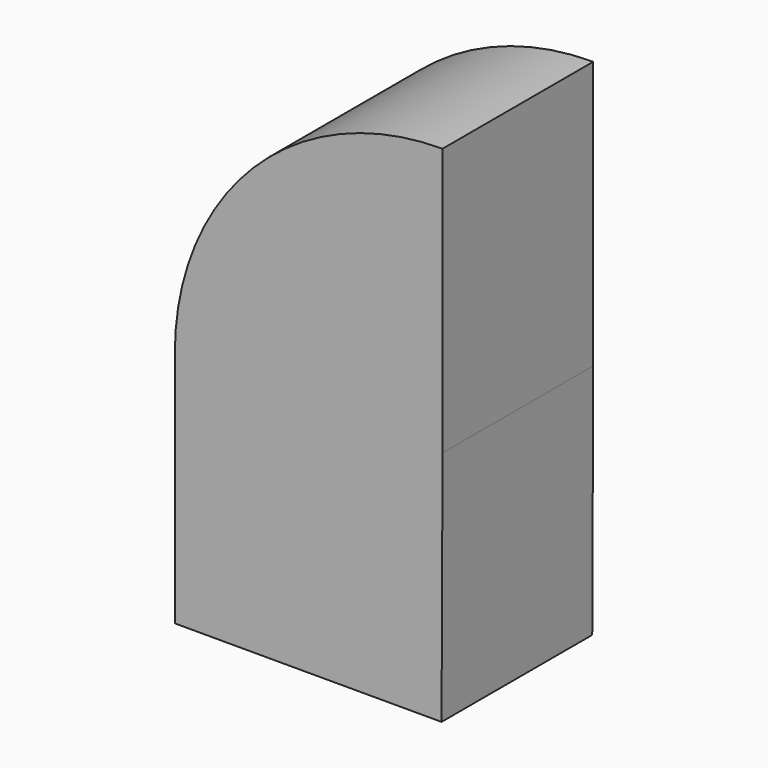
from build123d import *

# Parameters (mm, degrees)
F1_DEPTH  = 25.4
F1_FACE_W = 72.2126737237
F1_FACE_H = 50.8
F2_ANGLE  = 90


with BuildPart() as f1:
    # F0 (on Front) → F1 (new body, symmetric)
    with BuildSketch(Plane.XZ):
        Polygon((0, 63.9712512493), (0, 0), (71.9514414668, 0), (72.2126737237, 63.9712512493), align=None)
    extrude(amount=F1_DEPTH, both=True)

    # F1_face (on face) → F2 (revolve)
    with BuildSketch(Plane(origin=(36.1063368618, 0, 63.9712512493), x_dir=(1, 0, 0), z_dir=(0, 0, 1))):
        Rectangle(F1_FACE_W, F1_FACE_H)
    revolve(axis=Axis((72.2126737237, 0, 63.9712512493), (0, 1, 0)), revolution_arc=F2_ANGLE)


solid = f1.part
